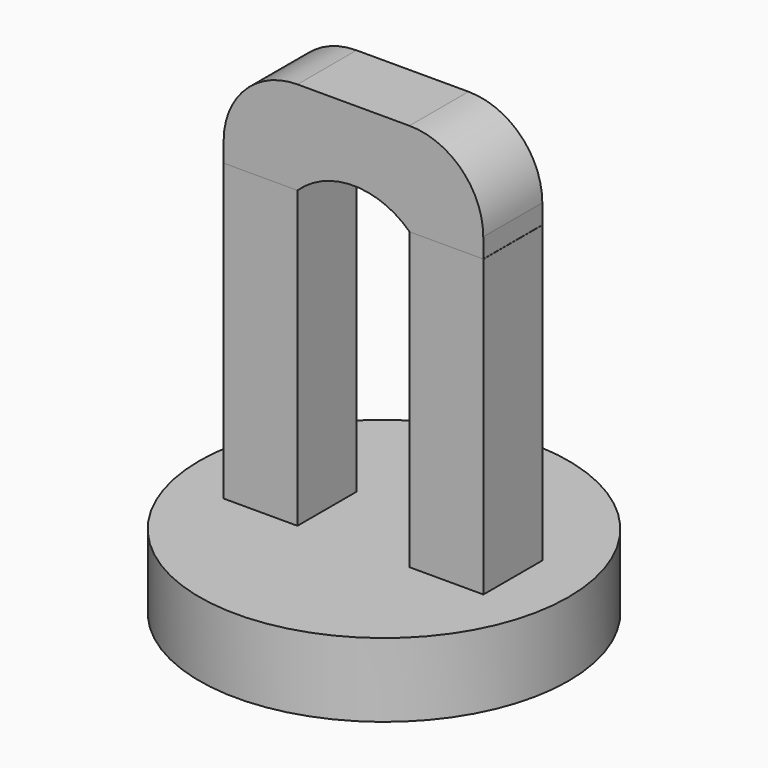
from build123d import *

# Parameters (mm, degrees)
F0_R     = 12.5
F1_DEPTH = 5
F2_W     = 5
F2_H     = 5
F3_DEPTH = 20
F5_DEPTH = 5
F6_R     = 5


with BuildPart() as f1:
    # F0 (on Top) → F1 (new body)
    with BuildSketch(Plane.XY):
        Circle(F0_R)
    extrude(amount=F1_DEPTH)

    # F2 (on face) → F3 (join)
    with BuildSketch(Plane.XY.offset(5)):
        with Locations((-6.297843, -0.080002)):
            Rectangle(F2_W, F2_H)
        with Locations((6.297843, -0.080002)):
            Rectangle(F2_W, F2_H)
    extrude(amount=F3_DEPTH)


with BuildPart() as f5:
    # F4 (on face) → F5 (new body)
    with BuildSketch(Plane.XZ.offset(2.580002)):
        with BuildLine():
            Line((-8.797843, 31.320501), (-8.797843, 25))
            Line((-8.797843, 25), (-3.797843, 25))
            ThreePointArc((-3.797843, 25), (0, 26.521761), (3.797843, 25))
            Line((3.797843, 25), (8.786377, 25))
            Line((8.786377, 25), (8.786377, 31.320501))
            Line((8.786377, 31.320501), (-8.797843, 31.320501))
        make_face()
    extrude(amount=-F5_DEPTH)

    # F6
    f6_edges = [f5.edges().sort_by_distance(p)[0] for p in [
        (8.786377, -0.080002, 31.320501),
        (-8.797843, -0.080002, 31.320501),
    ]]
    fillet(f6_edges, radius=F6_R)


solid = Compound([f1.part, f5.part])
